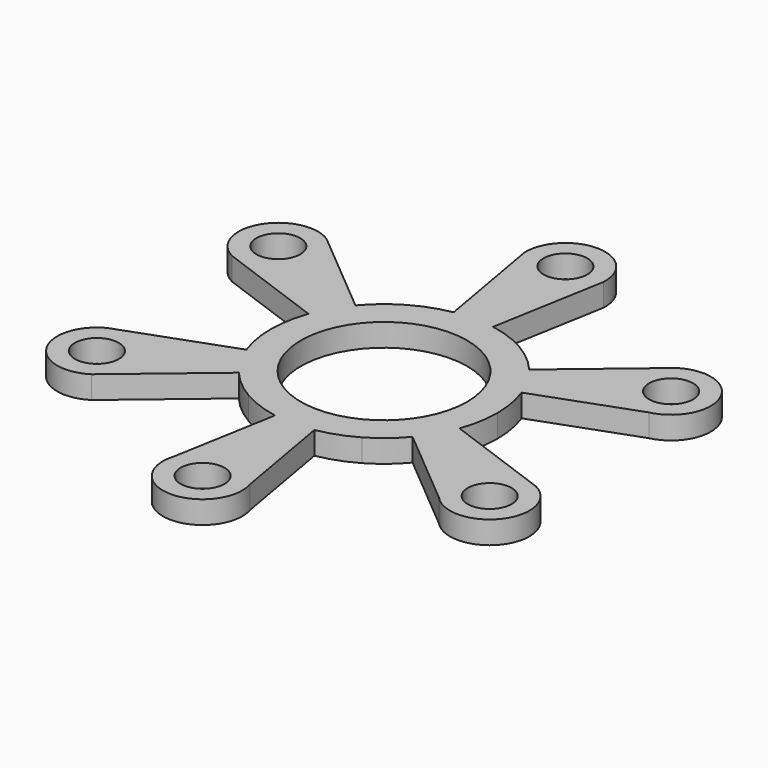
from build123d import *

# Parameters (mm, degrees)
F0_R     = 2.9
F0_R_2   = 11
F1_DEPTH = 3


with BuildPart() as f1:
    # F0 (on Top) → F1 (new body)
    with BuildSketch(Plane.XY):
        with BuildLine():
            Line((-5.24501, 29.745933), (-2.604723, 14.772116))
            ThreePointArc((-2.604723, 14.772116), (-5.130302, 14.095389), (-7.5, 12.990381))
            ThreePointArc((-7.5, 12.990381), (-9.641814, 11.490667), (-11.490667, 9.641814))
            Line((-11.490667, 9.641814), (-23.138228, 19.415279))
            ThreePointArc((-23.138228, 19.415279), (-30.5284, 17.62558), (-28.383239, 10.330654))
            Line((-28.383239, 10.330654), (-14.095389, 5.130302))
            ThreePointArc((-14.095389, 5.130302), (-14.772116, 2.604723), (-15, 0))
            ThreePointArc((-15, 0), (-14.772116, -2.604723), (-14.095389, -5.130302))
            Line((-14.095389, -5.130302), (-28.383239, -10.330654))
            ThreePointArc((-28.383239, -10.330654), (-30.5284, -17.62558), (-23.138228, -19.415279))
            Line((-23.138228, -19.415279), (-11.490667, -9.641814))
            ThreePointArc((-11.490667, -9.641814), (-9.641814, -11.490667), (-7.5, -12.990381))
            ThreePointArc((-7.5, -12.990381), (-5.130302, -14.095389), (-2.604723, -14.772116))
            Line((-2.604723, -14.772116), (-5.015594, -28.444846))
            ThreePointArc((-5.015594, -28.444846), (0, -35.25116), (5.015594, -28.444846))
            Line((5.015594, -28.444846), (2.604723, -14.772116))
            ThreePointArc((2.604723, -14.772116), (5.130302, -14.095389), (7.5, -12.990381))
            ThreePointArc((7.5, -12.990381), (9.641814, -11.490667), (11.490667, -9.641814))
            Line((11.490667, -9.641814), (22.126162, -18.566055))
            ThreePointArc((22.126162, -18.566055), (30.161985, -18.176801), (28.383239, -10.330654))
            Line((28.383239, -10.330654), (14.095389, -5.130302))
            ThreePointArc((14.095389, -5.130302), (14.772116, -2.604723), (15, 0))
            ThreePointArc((15, 0), (14.772116, 2.604723), (14.095389, 5.130302))
            Line((14.095389, 5.130302), (27.141756, 9.878791))
            ThreePointArc((27.141756, 9.878791), (30.822564, 17.032644), (23.138228, 19.415279))
            Line((23.138228, 19.415279), (11.490667, 9.641814))
            ThreePointArc((11.490667, 9.641814), (9.641814, 11.490667), (7.5, 12.990381))
            ThreePointArc((7.5, 12.990381), (5.130302, 14.095389), (2.604723, 14.772116))
            Line((2.604723, 14.772116), (5.24501, 29.745933))
            ThreePointArc((5.24501, 29.745933), (0, 35.25116), (-5.24501, 29.745933))
        make_face()
        with Locations((0, -30)):
            Circle(F0_R, mode=Mode.SUBTRACT)
        with Locations((-25.980762, -15)):
            Circle(F0_R, mode=Mode.SUBTRACT)
        with Locations((25.980762, -15)):
            Circle(F0_R, mode=Mode.SUBTRACT)
        with Locations((-25.980762, 15)):
            Circle(F0_R, mode=Mode.SUBTRACT)
        Circle(F0_R_2, mode=Mode.SUBTRACT)
        with Locations((0, 30)):
            Circle(F0_R, mode=Mode.SUBTRACT)
        with Locations((25.980762, 15)):
            Circle(F0_R, mode=Mode.SUBTRACT)
    extrude(amount=F1_DEPTH)


solid = f1.part
